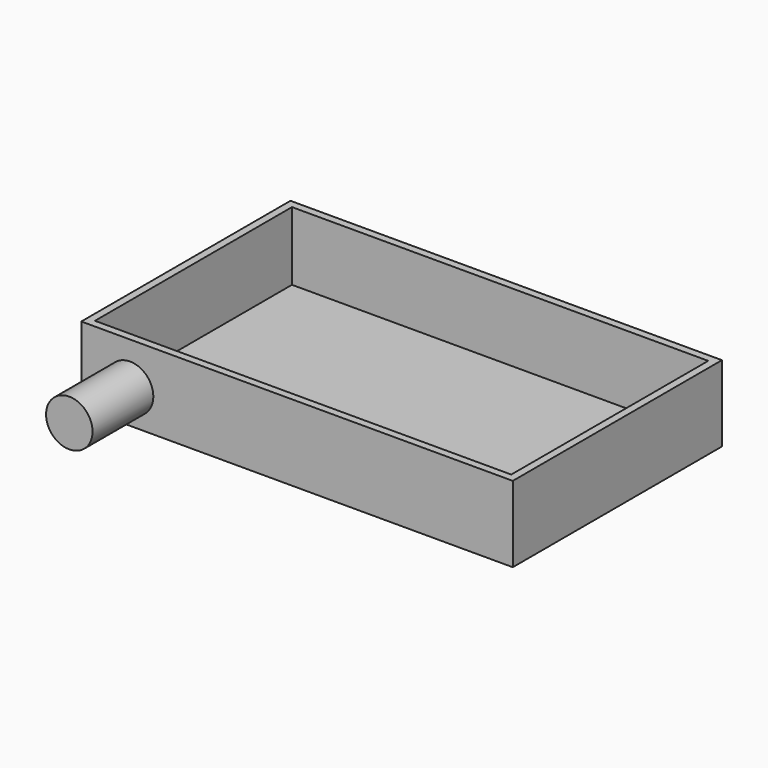
from build123d import *

# Parameters (mm, degrees)
F0_W     = 144.1599577665
F0_H     = 87.3491168022
F1_DEPTH = 25.4
F2_T     = -2.54
F3_R     = 7.7655304072
F4_DEPTH = 25.4


with BuildPart() as f1:
    # F0 (on Top) → F1 (new body)
    with BuildSketch(Plane.XY):
        with Locations((9.7206383944, -22.1865028143)):
            Rectangle(F0_W, F0_H)
    extrude(amount=F1_DEPTH)

    # F2
    f2_openings = [f1.faces().sort_by_distance(p)[0] for p in [
        (9.720638, -22.186503, 25.4),
    ]]
    offset(amount=F2_T, openings=f2_openings)

    # F3 (on face) → F4 (join)
    with BuildSketch(Plane.XZ.offset(65.8610612154)):
        with Locations((-46.0575036705, 11.1663378775)):
            Circle(F3_R)
    extrude(amount=F4_DEPTH)


solid = f1.part
